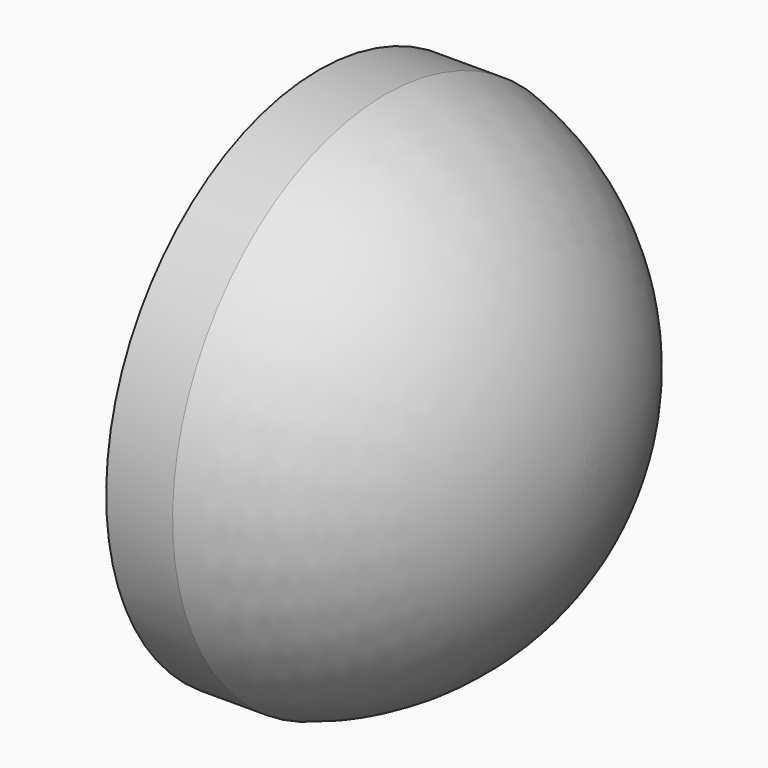
from build123d import *

# Parameters (mm, degrees)
F0_W = 3.175
F0_H = 12.7
F2_T = -1.27


with BuildPart() as f1:
    # F0 (on Front) → F1 (revolve)
    with BuildSketch(Plane.XZ):
        with Locations((1.5875, 6.35)):
            Rectangle(F0_W, F0_H)
        with BuildLine():
            ThreePointArc((12.689143, 0), (10.046807, 7.934244), (3.175, 12.7))
            Line((3.175, 12.7), (3.175, 0))
            Line((3.175, 0), (12.689143, 0))
        make_face()
    revolve(axis=Axis((6.344571, 0, 0), (1, 0, 0)))

    # F2
    f2_openings = [f1.faces().sort_by_distance(p)[0] for p in [
        (0, 0, 0),
    ]]
    offset(amount=F2_T, openings=f2_openings)


solid = f1.part
